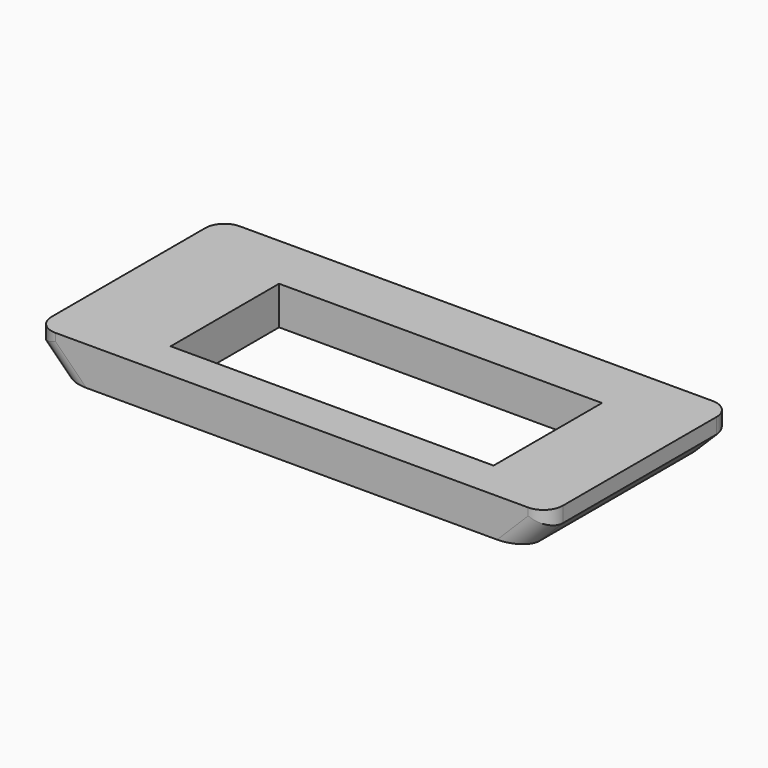
from build123d import *

# Parameters (mm, degrees)
F0_W     = 133
F0_H     = 60
F1_DEPTH = 10
F2_W     = 84
F2_H     = 35.25
F3_DEPTH = 10.001
F4_SIZE  = 6
F5_R     = 5


with BuildPart() as f1:
    # F0 (on Top) → F1 (new body)
    with BuildSketch(Plane.XY):
        with Locations((-1.8318939209, -5.355308602)):
            Rectangle(F0_W, F0_H)
    extrude(amount=F1_DEPTH)

    # F2 (on face) → F3 (cut, through all)
    with BuildSketch(Plane.XY.offset(10)):
        with Locations((0.6681060791, -7.730308602)):
            Rectangle(F2_W, F2_H)
    extrude(amount=-F3_DEPTH, mode=Mode.SUBTRACT)

    # F4
    f4_edges = [f1.edges().sort_by_distance(p)[0] for p in [
        (64.668106, -5.355309, 0),
        (-68.331894, -5.355309, 0),
    ]]
    chamfer(f4_edges, length=F4_SIZE)

    # F5
    f5_edges = [f1.edges().sort_by_distance(p)[0] for p in [
        (-68.331894, -35.355309, 8),
        (-65.331894, -35.355309, 3),
        (-68.331894, 24.644691, 8),
        (-65.331894, 24.644691, 3),
        (64.668106, 24.644691, 8),
        (61.668106, 24.644691, 3),
        (64.668106, -35.355309, 8),
        (61.668106, -35.355309, 3),
    ]]
    fillet(f5_edges, radius=F5_R)


solid = f1.part
